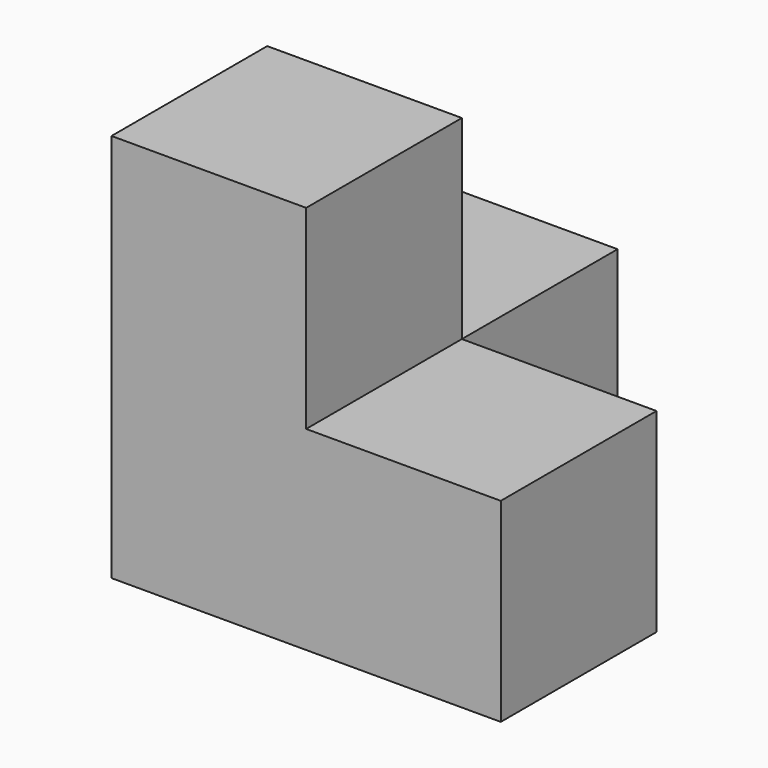
from build123d import *

# Parameters (mm, degrees)
BOX002_W     = 10
BOX002_H     = 10
BOX002_DEPTH = 10
BOX001_W     = 10
BOX001_H     = 10
BOX001_DEPTH = 10
BOX_W        = 10
BOX_H        = 10
BOX_DEPTH    = 10
BOX003_W     = 10
BOX003_H     = 10
BOX003_DEPTH = 10


with BuildPart() as cube002:
    # Box002 → Box002 (new body)
    with BuildSketch(Plane(origin=(0, 10, 0), x_dir=(1, 0, 0), z_dir=(0, 0, 1))):
        with Locations((5, 5)):
            Rectangle(BOX002_W, BOX002_H)
    extrude(amount=BOX002_DEPTH)


with BuildPart() as cube001:
    # Box001 → Box001 (new body)
    with BuildSketch(Plane(origin=(10, 0, 0), x_dir=(1, 0, 0), z_dir=(0, 0, 1))):
        with Locations((5, 5)):
            Rectangle(BOX001_W, BOX001_H)
    extrude(amount=BOX001_DEPTH)


with BuildPart() as cube:
    # Box → Box (new body)
    with BuildSketch(Plane.XY):
        with Locations((5, 5)):
            Rectangle(BOX_W, BOX_H)
    extrude(amount=BOX_DEPTH)


with BuildPart() as fusion:
    # Box003 → Box003 (new body)
    with BuildSketch(Plane.XY.offset(10)):
        with Locations((5, 5)):
            Rectangle(BOX003_W, BOX003_H)
    extrude(amount=BOX003_DEPTH)

    # Fusion: union Cube002, Cube001, Cube
    add(cube002.part)
    add(cube001.part)
    add(cube.part)


solid = fusion.part
